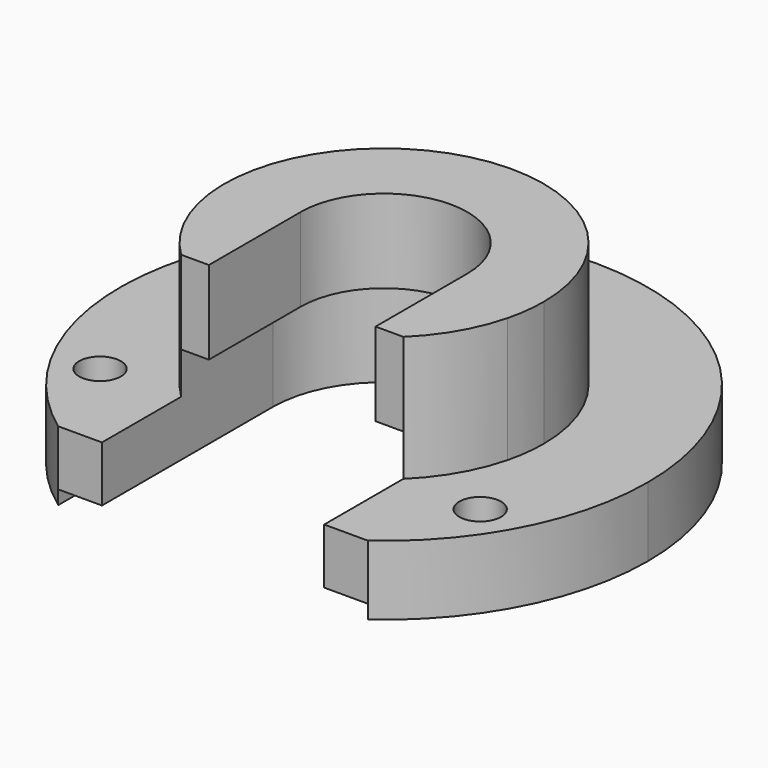
from build123d import *

# Parameters (mm, degrees)
F0_R     = 1.5
F1_DEPTH = 5
F2_DEPTH = 14
F3_DEPTH = 8
F4_DEPTH = 1


with BuildPart() as f1:
    # F0 (on Top) → F1 (new body)
    with BuildSketch(Plane.XY):
        with BuildLine():
            ThreePointArc((11.5, 0), (11.4121645624, -1.4186260959), (11.15, -2.8155816451))
            Line((11.15, -2.8155816451), (11.15, -15.3843264396))
            ThreePointArc((11.15, -15.3843264396), (16.9240952491, -8.6356817913), (19, 0))
            ThreePointArc((19, 0), (-8.6356817913, 16.9240952491), (-11.15, -15.3843264396))
            Line((-11.15, -15.3843264396), (-11.15, -2.8155816451))
            ThreePointArc((-11.15, -2.8155816451), (-1.4186260959, 11.4121645624), (11.5, 0))
        make_face()
        with Locations((-13.6848597932, -8.4528724563)):
            Circle(F0_R, mode=Mode.SUBTRACT)
        with Locations((13.6848597932, -8.4528724563)):
            Circle(F0_R, mode=Mode.SUBTRACT)
        with Locations((0, 15.25)):
            Circle(F0_R, mode=Mode.SUBTRACT)
        with BuildLine():
            Line((8, 0), (11.15, 0))
            ThreePointArc((11.15, 0), (0, 11.15), (-11.15, 0))
            Line((-11.15, 0), (-8, 0))
            ThreePointArc((-8, 0), (0, 8), (8, 0))
        make_face()
        with BuildLine():
            ThreePointArc((-11.15, 0), (0, 11.15), (11.15, 0))
            Line((11.15, 0), (11.15, -2.8155816451))
            ThreePointArc((11.15, -2.8155816451), (11.4121645624, -1.4186260959), (11.5, 0))
            ThreePointArc((11.5, 0), (-1.4186260959, 11.4121645624), (-11.15, -2.8155816451))
            Line((-11.15, -2.8155816451), (-11.15, 0))
        make_face()
        with BuildLine():
            Line((6, 0), (8, 0))
            ThreePointArc((8, 0), (0, 8), (-8, 0))
            Line((-8, 0), (-6, 0))
            ThreePointArc((-6, 0), (0, 6), (6, 0))
        make_face()
        with BuildLine():
            Line((-8, 0), (-11.15, 0))
            ThreePointArc((-11.15, 0), (-10.3325335712, -4.1906145134), (-8, -7.7667560796))
            Line((-8, -7.7667560796), (-8, 0))
        make_face()
        with BuildLine():
            ThreePointArc((-8, -8.2613558209), (-9.9546340512, -5.758060516), (-11.15, -2.8155816451))
            Line((-11.15, -2.8155816451), (-11.15, -15.3843264396))
            Line((-11.15, -15.3843264396), (-8, -15.3843264396))
            Line((-8, -15.3843264396), (-8, -8.2613558209))
        make_face()
        with BuildLine():
            ThreePointArc((-8, -7.7667560796), (-10.3325335712, -4.1906145134), (-11.15, 0))
            Line((-11.15, 0), (-11.15, -2.8155816451))
            ThreePointArc((-11.15, -2.8155816451), (-9.9546340512, -5.758060516), (-8, -8.2613558209))
            Line((-8, -8.2613558209), (-8, -7.7667560796))
        make_face()
        with BuildLine():
            ThreePointArc((-6, -9.8107084352), (-7.0427355041, -9.0911977549), (-8, -8.2613558209))
            Line((-8, -8.2613558209), (-8, -15.3843264396))
            Line((-8, -15.3843264396), (-8, -17.2336879396))
            ThreePointArc((-8, -17.2336879396), (-7.0112506852, -17.6590589735), (-6, -18.0277563773))
            Line((-6, -18.0277563773), (-6, -9.8107084352))
        make_face()
        with BuildLine():
            ThreePointArc((-7.4881573167, -8.2613558209), (-7.7480262966, -8.0181412127), (-8, -7.7667560796))
            Line((-8, -7.7667560796), (-8, -8.2613558209))
            Line((-8, -8.2613558209), (-7.4881573167, -8.2613558209))
        make_face()
        with BuildLine():
            Line((-8, 0), (-8, -7.7667560796))
            ThreePointArc((-8, -7.7667560796), (-7.7480262966, -8.0181412127), (-7.4881573167, -8.2613558209))
            Line((-7.4881573167, -8.2613558209), (-6, -8.2613558209))
            Line((-6, -8.2613558209), (-6, -5.2915026221))
            ThreePointArc((-6, -5.2915026221), (-7.4833147735, -2.8284271247), (-8, 0))
        make_face()
        with BuildLine():
            Line((-6, 0), (-8, 0))
            ThreePointArc((-8, 0), (-7.4833147735, -2.8284271247), (-6, -5.2915026221))
            Line((-6, -5.2915026221), (-6, 0))
        make_face()
        with BuildLine():
            ThreePointArc((6, -5.2915026221), (7.4833147735, -2.8284271247), (8, 0))
            Line((8, 0), (6, 0))
            Line((6, 0), (6, -5.2915026221))
        make_face()
        with BuildLine():
            ThreePointArc((6, -9.3980051075), (6.7679827017, -8.8609768169), (7.4881573167, -8.2613558209))
            Line((7.4881573167, -8.2613558209), (6, -8.2613558209))
            Line((6, -8.2613558209), (6, -9.3980051075))
        make_face()
        with BuildLine():
            ThreePointArc((8, -7.7667560796), (10.3325335712, -4.1906145134), (11.15, 0))
            Line((11.15, 0), (8, 0))
            Line((8, 0), (8, -7.7667560796))
        make_face()
        with BuildLine():
            Line((11.15, -15.3843264396), (11.15, -2.8155816451))
            ThreePointArc((11.15, -2.8155816451), (9.9546340512, -5.758060516), (8, -8.2613558209))
            Line((8, -8.2613558209), (8, -15.3843264396))
            Line((8, -15.3843264396), (11.15, -15.3843264396))
        make_face()
        with BuildLine():
            Line((8, -15.3843264396), (8, -8.2613558209))
            ThreePointArc((8, -8.2613558209), (7.0427355041, -9.0911977549), (6, -9.8107084352))
            Line((6, -9.8107084352), (6, -18.0277563773))
            ThreePointArc((6, -18.0277563773), (7.0112506852, -17.6590589735), (8, -17.2336879396))
            Line((8, -17.2336879396), (8, -15.3843264396))
        make_face()
        with BuildLine():
            Line((8, -8.2613558209), (7.4881573167, -8.2613558209))
            ThreePointArc((7.4881573167, -8.2613558209), (6.7679827017, -8.8609768169), (6, -9.3980051075))
            Line((6, -9.3980051075), (6, -9.8107084352))
            ThreePointArc((6, -9.8107084352), (7.0427355041, -9.0911977549), (8, -8.2613558209))
        make_face()
        with BuildLine():
            Line((11.15, -2.8155816451), (11.15, 0))
            ThreePointArc((11.15, 0), (10.3325335712, -4.1906145134), (8, -7.7667560796))
            Line((8, -7.7667560796), (8, -8.2613558209))
            ThreePointArc((8, -8.2613558209), (9.9546340512, -5.758060516), (11.15, -2.8155816451))
        make_face()
    extrude(amount=F1_DEPTH)

    # F0 (on Top) → F2 (join)
    with BuildSketch(Plane.XY):
        with BuildLine():
            ThreePointArc((-11.15, 0), (0, 11.15), (11.15, 0))
            Line((11.15, 0), (11.15, -2.8155816451))
            ThreePointArc((11.15, -2.8155816451), (11.4121645624, -1.4186260959), (11.5, 0))
            ThreePointArc((11.5, 0), (-1.4186260959, 11.4121645624), (-11.15, -2.8155816451))
            Line((-11.15, -2.8155816451), (-11.15, 0))
        make_face()
        with BuildLine():
            Line((8, 0), (11.15, 0))
            ThreePointArc((11.15, 0), (0, 11.15), (-11.15, 0))
            Line((-11.15, 0), (-8, 0))
            ThreePointArc((-8, 0), (0, 8), (8, 0))
        make_face()
        with BuildLine():
            ThreePointArc((8, -7.7667560796), (10.3325335712, -4.1906145134), (11.15, 0))
            Line((11.15, 0), (8, 0))
            Line((8, 0), (8, -7.7667560796))
        make_face()
        with BuildLine():
            Line((11.15, -2.8155816451), (11.15, 0))
            ThreePointArc((11.15, 0), (10.3325335712, -4.1906145134), (8, -7.7667560796))
            Line((8, -7.7667560796), (8, -8.2613558209))
            ThreePointArc((8, -8.2613558209), (9.9546340512, -5.758060516), (11.15, -2.8155816451))
        make_face()
        with BuildLine():
            ThreePointArc((6, -5.2915026221), (7.4833147735, -2.8284271247), (8, 0))
            Line((8, 0), (6, 0))
            Line((6, 0), (6, -5.2915026221))
        make_face()
        with BuildLine():
            Line((6, 0), (8, 0))
            ThreePointArc((8, 0), (0, 8), (-8, 0))
            Line((-8, 0), (-6, 0))
            ThreePointArc((-6, 0), (0, 6), (6, 0))
        make_face()
        with BuildLine():
            Line((-6, 0), (-8, 0))
            ThreePointArc((-8, 0), (-7.4833147735, -2.8284271247), (-6, -5.2915026221))
            Line((-6, -5.2915026221), (-6, 0))
        make_face()
        with BuildLine():
            Line((-8, 0), (-8, -7.7667560796))
            ThreePointArc((-8, -7.7667560796), (-7.7480262966, -8.0181412127), (-7.4881573167, -8.2613558209))
            Line((-7.4881573167, -8.2613558209), (-6, -8.2613558209))
            Line((-6, -8.2613558209), (-6, -5.2915026221))
            ThreePointArc((-6, -5.2915026221), (-7.4833147735, -2.8284271247), (-8, 0))
        make_face()
        with BuildLine():
            Line((-8, 0), (-11.15, 0))
            ThreePointArc((-11.15, 0), (-10.3325335712, -4.1906145134), (-8, -7.7667560796))
            Line((-8, -7.7667560796), (-8, 0))
        make_face()
        with BuildLine():
            ThreePointArc((-8, -7.7667560796), (-10.3325335712, -4.1906145134), (-11.15, 0))
            Line((-11.15, 0), (-11.15, -2.8155816451))
            ThreePointArc((-11.15, -2.8155816451), (-9.9546340512, -5.758060516), (-8, -8.2613558209))
            Line((-8, -8.2613558209), (-8, -7.7667560796))
        make_face()
        with BuildLine():
            ThreePointArc((-7.4881573167, -8.2613558209), (-7.7480262966, -8.0181412127), (-8, -7.7667560796))
            Line((-8, -7.7667560796), (-8, -8.2613558209))
            Line((-8, -8.2613558209), (-7.4881573167, -8.2613558209))
        make_face()
        with BuildLine():
            Line((8, -8.2613558209), (8, -7.7667560796))
            ThreePointArc((8, -7.7667560796), (7.7480262966, -8.0181412127), (7.4881573167, -8.2613558209))
            Line((7.4881573167, -8.2613558209), (8, -8.2613558209))
        make_face()
        with BuildLine():
            ThreePointArc((7.4881573167, -8.2613558209), (7.7480262966, -8.0181412127), (8, -7.7667560796))
            Line((8, -7.7667560796), (8, 0))
            ThreePointArc((8, 0), (7.4833147735, -2.8284271247), (6, -5.2915026221))
            Line((6, -5.2915026221), (6, -8.2613558209))
            Line((6, -8.2613558209), (7.4881573167, -8.2613558209))
        make_face()
    extrude(amount=F2_DEPTH)

    # F0 (on Top) → F3 (cut)
    with BuildSketch(Plane.XY):
        with BuildLine():
            ThreePointArc((6, -5.2915026221), (7.4833147735, -2.8284271247), (8, 0))
            Line((8, 0), (6, 0))
            Line((6, 0), (6, -5.2915026221))
        make_face()
        with BuildLine():
            ThreePointArc((6, -9.3980051075), (6.7679827017, -8.8609768169), (7.4881573167, -8.2613558209))
            Line((7.4881573167, -8.2613558209), (6, -8.2613558209))
            Line((6, -8.2613558209), (6, -9.3980051075))
        make_face()
        with BuildLine():
            Line((8, -15.3843264396), (8, -8.2613558209))
            ThreePointArc((8, -8.2613558209), (7.0427355041, -9.0911977549), (6, -9.8107084352))
            Line((6, -9.8107084352), (6, -18.0277563773))
            ThreePointArc((6, -18.0277563773), (7.0112506852, -17.6590589735), (8, -17.2336879396))
            Line((8, -17.2336879396), (8, -15.3843264396))
        make_face()
        with BuildLine():
            Line((8, -18.7455099076), (8, -17.2336879396))
            ThreePointArc((8, -17.2336879396), (7.0112506852, -17.6590589735), (6, -18.0277563773))
            Line((6, -18.0277563773), (6, -18.7455099076))
            Line((6, -18.7455099076), (8, -18.7455099076))
        make_face()
        with BuildLine():
            Line((8, -8.2613558209), (7.4881573167, -8.2613558209))
            ThreePointArc((7.4881573167, -8.2613558209), (6.7679827017, -8.8609768169), (6, -9.3980051075))
            Line((6, -9.3980051075), (6, -9.8107084352))
            ThreePointArc((6, -9.8107084352), (7.0427355041, -9.0911977549), (8, -8.2613558209))
        make_face()
        with BuildLine():
            ThreePointArc((-6, -18.0277563773), (-7.0112506852, -17.6590589735), (-8, -17.2336879396))
            Line((-8, -17.2336879396), (-8, -18.7455099076))
            Line((-8, -18.7455099076), (-6, -18.7455099076))
            Line((-6, -18.7455099076), (-6, -18.0277563773))
        make_face()
        with BuildLine():
            ThreePointArc((-6, -9.8107084352), (-7.0427355041, -9.0911977549), (-8, -8.2613558209))
            Line((-8, -8.2613558209), (-8, -15.3843264396))
            Line((-8, -15.3843264396), (-8, -17.2336879396))
            ThreePointArc((-8, -17.2336879396), (-7.0112506852, -17.6590589735), (-6, -18.0277563773))
            Line((-6, -18.0277563773), (-6, -9.8107084352))
        make_face()
        with BuildLine():
            Line((-8, 0), (-8, -7.7667560796))
            ThreePointArc((-8, -7.7667560796), (-7.7480262966, -8.0181412127), (-7.4881573167, -8.2613558209))
            Line((-7.4881573167, -8.2613558209), (-6, -8.2613558209))
            Line((-6, -8.2613558209), (-6, -5.2915026221))
            ThreePointArc((-6, -5.2915026221), (-7.4833147735, -2.8284271247), (-8, 0))
        make_face()
        with BuildLine():
            Line((-6, 0), (-8, 0))
            ThreePointArc((-8, 0), (-7.4833147735, -2.8284271247), (-6, -5.2915026221))
            Line((-6, -5.2915026221), (-6, 0))
        make_face()
        with BuildLine():
            ThreePointArc((-7.4881573167, -8.2613558209), (-7.7480262966, -8.0181412127), (-8, -7.7667560796))
            Line((-8, -7.7667560796), (-8, -8.2613558209))
            Line((-8, -8.2613558209), (-7.4881573167, -8.2613558209))
        make_face()
        with BuildLine():
            Line((6, 0), (8, 0))
            ThreePointArc((8, 0), (0, 8), (-8, 0))
            Line((-8, 0), (-6, 0))
            ThreePointArc((-6, 0), (0, 6), (6, 0))
        make_face()
        with BuildLine():
            ThreePointArc((7.4881573167, -8.2613558209), (7.7480262966, -8.0181412127), (8, -7.7667560796))
            Line((8, -7.7667560796), (8, 0))
            ThreePointArc((8, 0), (7.4833147735, -2.8284271247), (6, -5.2915026221))
            Line((6, -5.2915026221), (6, -8.2613558209))
            Line((6, -8.2613558209), (7.4881573167, -8.2613558209))
        make_face()
        with BuildLine():
            Line((8, -8.2613558209), (8, -7.7667560796))
            ThreePointArc((8, -7.7667560796), (7.7480262966, -8.0181412127), (7.4881573167, -8.2613558209))
            Line((7.4881573167, -8.2613558209), (8, -8.2613558209))
        make_face()
    extrude(amount=F3_DEPTH, mode=Mode.SUBTRACT)

    # F0 (on Top) → F4 (cut)
    with BuildSketch(Plane.XY):
        with BuildLine():
            ThreePointArc((8, -7.7667560796), (10.3325335712, -4.1906145134), (11.15, 0))
            Line((11.15, 0), (8, 0))
            Line((8, 0), (8, -7.7667560796))
        make_face()
        with BuildLine():
            Line((11.15, -15.3843264396), (11.15, -2.8155816451))
            ThreePointArc((11.15, -2.8155816451), (9.9546340512, -5.758060516), (8, -8.2613558209))
            Line((8, -8.2613558209), (8, -15.3843264396))
            Line((8, -15.3843264396), (11.15, -15.3843264396))
        make_face()
        with BuildLine():
            Line((11.15, -2.8155816451), (11.15, 0))
            ThreePointArc((11.15, 0), (10.3325335712, -4.1906145134), (8, -7.7667560796))
            Line((8, -7.7667560796), (8, -8.2613558209))
            ThreePointArc((8, -8.2613558209), (9.9546340512, -5.758060516), (11.15, -2.8155816451))
        make_face()
        with BuildLine():
            Line((8, 0), (11.15, 0))
            ThreePointArc((11.15, 0), (0, 11.15), (-11.15, 0))
            Line((-11.15, 0), (-8, 0))
            ThreePointArc((-8, 0), (0, 8), (8, 0))
        make_face()
        with BuildLine():
            Line((-8, 0), (-11.15, 0))
            ThreePointArc((-11.15, 0), (-10.3325335712, -4.1906145134), (-8, -7.7667560796))
            Line((-8, -7.7667560796), (-8, 0))
        make_face()
        with BuildLine():
            ThreePointArc((-8, -7.7667560796), (-10.3325335712, -4.1906145134), (-11.15, 0))
            Line((-11.15, 0), (-11.15, -2.8155816451))
            ThreePointArc((-11.15, -2.8155816451), (-9.9546340512, -5.758060516), (-8, -8.2613558209))
            Line((-8, -8.2613558209), (-8, -7.7667560796))
        make_face()
        with BuildLine():
            ThreePointArc((-8, -8.2613558209), (-9.9546340512, -5.758060516), (-11.15, -2.8155816451))
            Line((-11.15, -2.8155816451), (-11.15, -15.3843264396))
            Line((-11.15, -15.3843264396), (-8, -15.3843264396))
            Line((-8, -15.3843264396), (-8, -8.2613558209))
        make_face()
    extrude(amount=F4_DEPTH, mode=Mode.SUBTRACT)


solid = f1.part
